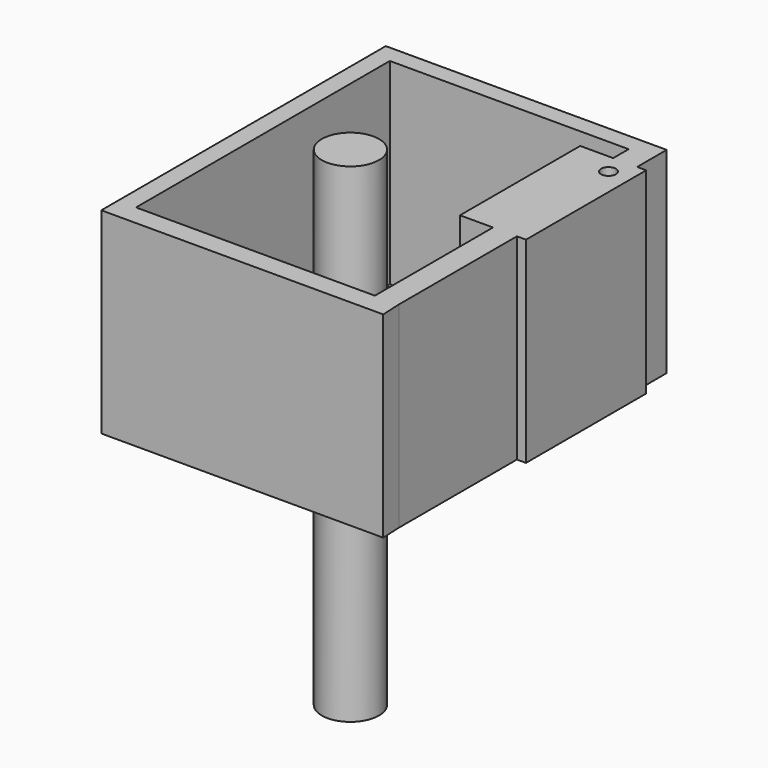
from build123d import *

# Parameters (mm, degrees)
F0_R     = 3.640353
F1_DEPTH = 10
F2_R     = 0.947204
F3_DEPTH = 25
F4_DEPTH = 31.1


with BuildPart() as f1:
    # F0 (on Top) → F1 (new body)
    with BuildSketch(Plane.XY):
        with BuildLine():
            Line((-8.061643, 11.0959), (-6.130575, 8.438013))
            ThreePointArc((-6.130575, 8.438013), (-7.265387, 7.483192), (-8.253301, 6.377071))
            ThreePointArc((-8.253301, 6.377071), (-11.09072, 6.297838), (-13.044013, 4.238257))
            Line((-13.044013, 4.238257), (-9.919479, 3.223034))
            ThreePointArc((-9.919479, 3.223034), (-10.276331, 1.783543), (-10.425409, 0.307991))
            ThreePointArc((-10.425409, 0.307991), (-12.674357, -1.423904), (-13.044013, -4.238257))
            Line((-13.044013, -4.238257), (-9.919479, -3.223034))
            ThreePointArc((-9.919479, -3.223034), (-9.362067, -4.59736), (-8.615365, -5.878732))
            ThreePointArc((-8.615365, -5.878732), (-9.416821, -8.601763), (-8.061643, -11.0959))
            Line((-8.061643, -11.0959), (-6.130575, -8.438013))
            ThreePointArc((-6.130575, -8.438013), (-4.871811, -9.222227), (-3.514545, -9.819979))
            ThreePointArc((-3.514545, -9.819979), (-2.562379, -12.494041), (0, -13.715287))
            Line((0, -13.715287), (0, -10.429957))
            ThreePointArc((0, -10.429957), (1.479311, -10.324517), (2.928712, -10.010327))
            ThreePointArc((2.928712, -10.010327), (5.270805, -11.614019), (8.061643, -11.0959))
            Line((8.061643, -11.0959), (6.130575, -8.438013))
            ThreePointArc((6.130575, -8.438013), (7.265387, -7.483192), (8.253301, -6.377071))
            ThreePointArc((8.253301, -6.377071), (11.09072, -6.297838), (13.044013, -4.238257))
            Line((13.044013, -4.238257), (9.919479, -3.223034))
            ThreePointArc((9.919479, -3.223034), (10.276331, -1.783543), (10.425409, -0.307991))
            ThreePointArc((10.425409, -0.307991), (12.674357, 1.423904), (13.044013, 4.238257))
            Line((13.044013, 4.238257), (9.919479, 3.223034))
            ThreePointArc((9.919479, 3.223034), (9.362067, 4.59736), (8.615365, 5.878732))
            ThreePointArc((8.615365, 5.878732), (9.416821, 8.601763), (8.061643, 11.0959))
            Line((8.061643, 11.0959), (6.130575, 8.438013))
            ThreePointArc((6.130575, 8.438013), (4.871811, 9.222227), (3.514545, 9.819979))
            ThreePointArc((3.514545, 9.819979), (2.562379, 12.494041), (0, 13.715287))
            Line((0, 13.715287), (0, 10.429957))
            ThreePointArc((0, 10.429957), (-1.479311, 10.324517), (-2.928712, 10.010327))
            ThreePointArc((-2.928712, 10.010327), (-5.270805, 11.614019), (-8.061643, 11.0959))
        make_face()
        Circle(F0_R, mode=Mode.SUBTRACT)
    extrude(amount=F1_DEPTH)

    # F0 (on Top) → F4 (join, symmetric)
    with BuildSketch(Plane.XY):
        Circle(F0_R)
    extrude(amount=F4_DEPTH, both=True)


with BuildPart() as f3:
    # F2 (on Top) → F3 (new body)
    with BuildSketch(Plane.XY):
        Polygon((17.25694, 4.906488), (14.214994, 4.906488), (14.214994, -13.87594), (-16.166694, -13.87594), (-16.166694, 26.476193), (14.214994, 26.476193), (14.214994, 24.017386), (17.25694, 24.017386), (17.25694, 26.476193), (17.25694, 28.721543), (-18.476197, 28.721543), (-18.476197, -16.506206), (-16.166694, -16.506206), (17.385239, -16.506206), (17.25694, -13.87594), align=None)
        Polygon((10.018989, 24.017386), (10.018989, 4.906488), (14.214994, 4.906488), (17.25694, 4.906488), (18.410999, 4.906488), (18.410999, 24.017386), (17.25694, 24.017386), (14.214994, 24.017386), align=None)
        with Locations((15.65312, 21.472272)):
            Circle(F2_R, mode=Mode.SUBTRACT)
    extrude(amount=F3_DEPTH)


solid = Compound([f1.part, f3.part])
